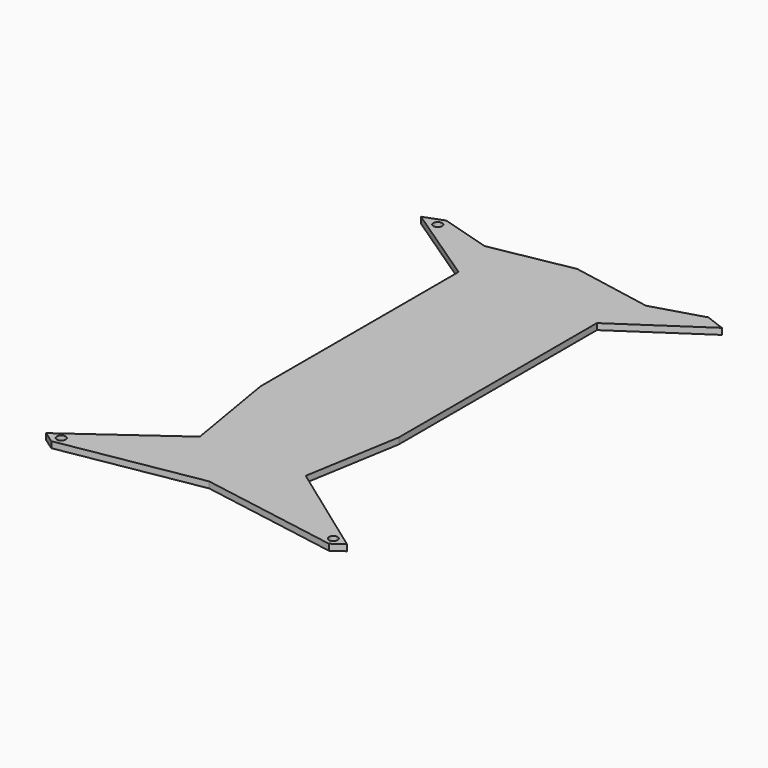
from build123d import *

# Parameters (mm, degrees)
F0_R     = 1.4
F1_DEPTH = 2


with BuildPart() as f1:
    # F0 (on Top) → F1 (new body)
    with BuildSketch(Plane.XY):
        Polygon((26.009286, 73.157102), (0, 78), (-26.009286, 73.157102), (-42.242903, 78), (-48.5, 75.665571), (-22.289002, 58.044195), (-22.289002, -21.73594), (-17.064234, -52.736245), (-48.5, -75.383104), (-44.735368, -78), (0, -70.295058), (44.735368, -78), (48.5, -75.383104), (17.064234, -52.736245), (22.289002, -21.73594), (22.289002, 58.044195), (48.5, 75.665571), (42.242903, 78), align=None)
        with Locations((-43.849908, -75.08795)):
            Circle(F0_R, mode=Mode.SUBTRACT)
        with Locations((43.849908, -75.08795)):
            Circle(F0_R, mode=Mode.SUBTRACT)
        with Locations((-42.526703, 74.962392)):
            Circle(F0_R, mode=Mode.SUBTRACT)
    extrude(amount=F1_DEPTH)


solid = f1.part
